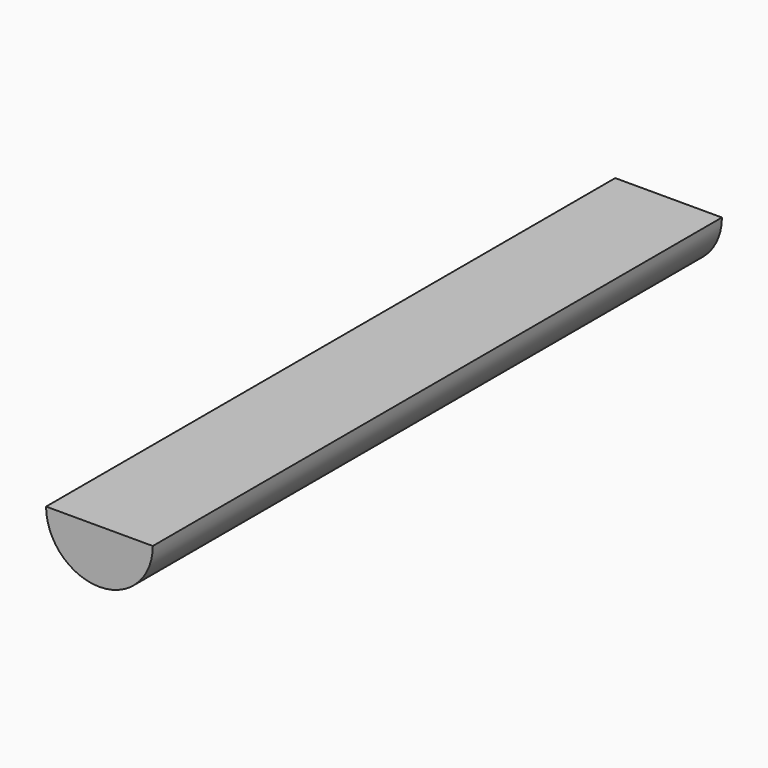
from build123d import *

# Parameters (mm, degrees)
F1_DEPTH = 40


with BuildPart() as f1:
    # F0 (on Front) → F1 (new body)
    with BuildSketch(Plane.XZ):
        with BuildLine():
            Line((3, 0.63662), (0, 0.63662))
            Line((0, 0.63662), (-3, 0.63662))
            ThreePointArc((-3, 0.63662), (0, -2.36338), (3, 0.63662))
        make_face()
    extrude(amount=F1_DEPTH)


solid = f1.part
